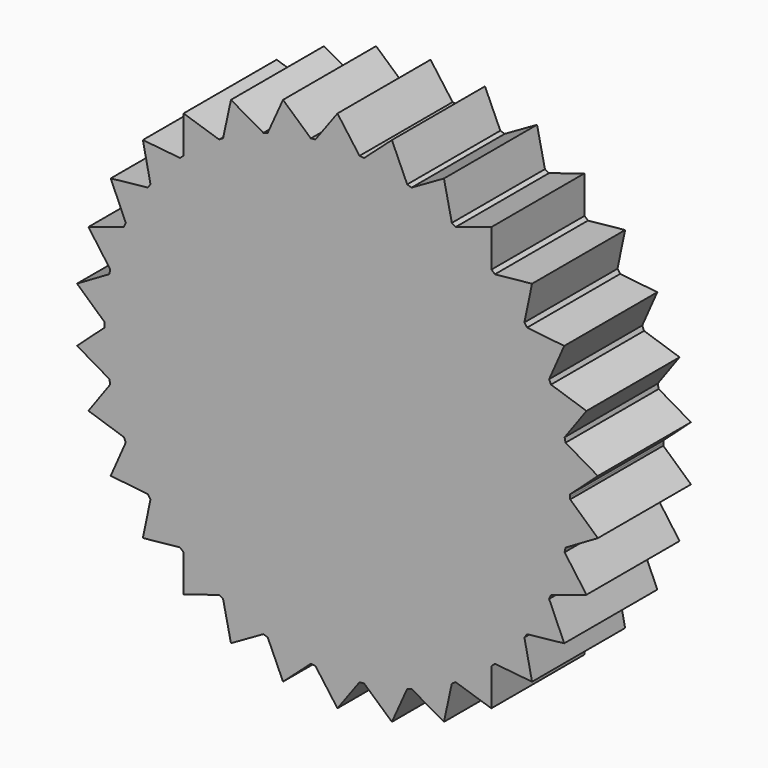
from build123d import *

# Parameters (mm, degrees)
F1_DEPTH = 12.7


with BuildPart() as f1:
    # F0 (on Front) → F1 (new body)
    with BuildSketch(Plane.XZ):
        with BuildLine():
            ThreePointArc((25.39878, -0.248902), (25.399695, -0.124452), (25.4, 0))
            ThreePointArc((25.4, 0), (25.399695, 0.124452), (25.39878, 0.248902))
            ThreePointArc((25.39878, 0.248902), (25.260856, 2.655023), (24.895506, 5.037241))
            ThreePointArc((24.895506, 5.037241), (24.844949, 5.280957), (24.792007, 5.524166))
            ThreePointArc((24.792007, 5.524166), (24.156836, 7.849032), (23.304178, 10.103232))
            ThreePointArc((23.304178, 10.103232), (23.204055, 10.331111), (23.101703, 10.557998))
            ThreePointArc((23.101703, 10.557998), (21.997045, 12.7), (20.694346, 14.727663))
            ThreePointArc((20.694346, 14.727663), (20.549032, 14.929745), (20.401744, 15.130394))
            ThreePointArc((20.401744, 15.130394), (18.875879, 16.995917), (17.180071, 18.708425))
            ThreePointArc((17.180071, 18.708425), (16.995917, 18.875879), (16.810131, 19.04152))
            ThreePointArc((16.810131, 19.04152), (14.929745, 20.549032), (12.914945, 21.871538))
            ThreePointArc((12.914945, 21.871538), (12.7, 21.997045), (12.483835, 22.12044))
            ThreePointArc((12.483835, 22.12044), (10.331111, 23.204055), (8.085374, 24.078761))
            ThreePointArc((8.085374, 24.078761), (7.849032, 24.156836), (7.611935, 24.23259))
            ThreePointArc((7.611935, 24.23259), (5.280957, 24.844949), (2.902434, 25.233626))
            ThreePointArc((2.902434, 25.233626), (2.655023, 25.260856), (2.407357, 25.285661))
            ThreePointArc((2.407357, 25.285661), (0, 25.4), (-2.407357, 25.285661))
            ThreePointArc((-2.407357, 25.285661), (-2.655023, 25.260856), (-2.902434, 25.233626))
            ThreePointArc((-2.902434, 25.233626), (-5.280957, 24.844949), (-7.611935, 24.23259))
            ThreePointArc((-7.611935, 24.23259), (-7.849032, 24.156836), (-8.085374, 24.078761))
            ThreePointArc((-8.085374, 24.078761), (-10.331111, 23.204055), (-12.483835, 22.12044))
            ThreePointArc((-12.483835, 22.12044), (-12.7, 21.997045), (-12.914945, 21.871538))
            ThreePointArc((-12.914945, 21.871538), (-14.929745, 20.549032), (-16.810131, 19.04152))
            ThreePointArc((-16.810131, 19.04152), (-16.995917, 18.875879), (-17.180071, 18.708425))
            ThreePointArc((-17.180071, 18.708425), (-18.875879, 16.995917), (-20.401744, 15.130394))
            ThreePointArc((-20.401744, 15.130394), (-20.549032, 14.929745), (-20.694346, 14.727663))
            ThreePointArc((-20.694346, 14.727663), (-21.997045, 12.7), (-23.101703, 10.557998))
            ThreePointArc((-23.101703, 10.557998), (-23.204055, 10.331111), (-23.304178, 10.103232))
            ThreePointArc((-23.304178, 10.103232), (-24.156836, 7.849032), (-24.792007, 5.524166))
            ThreePointArc((-24.792007, 5.524166), (-24.844949, 5.280957), (-24.895506, 5.037241))
            ThreePointArc((-24.895506, 5.037241), (-25.260856, 2.655023), (-25.39878, 0.248902))
            ThreePointArc((-25.39878, 0.248902), (-25.4, 0), (-25.39878, -0.248902))
            ThreePointArc((-25.39878, -0.248902), (-25.260856, -2.655023), (-24.895506, -5.037241))
            ThreePointArc((-24.895506, -5.037241), (-24.844949, -5.280957), (-24.792007, -5.524166))
            ThreePointArc((-24.792007, -5.524166), (-24.156836, -7.849032), (-23.304178, -10.103232))
            ThreePointArc((-23.304178, -10.103232), (-23.204055, -10.331111), (-23.101703, -10.557998))
            ThreePointArc((-23.101703, -10.557998), (-21.997045, -12.7), (-20.694346, -14.727663))
            ThreePointArc((-20.694346, -14.727663), (-20.549032, -14.929745), (-20.401744, -15.130394))
            ThreePointArc((-20.401744, -15.130394), (-18.875879, -16.995917), (-17.180071, -18.708425))
            ThreePointArc((-17.180071, -18.708425), (-16.995917, -18.875879), (-16.810131, -19.04152))
            ThreePointArc((-16.810131, -19.04152), (-14.929745, -20.549032), (-12.914945, -21.871538))
            ThreePointArc((-12.914945, -21.871538), (-12.7, -21.997045), (-12.483835, -22.12044))
            ThreePointArc((-12.483835, -22.12044), (-10.331111, -23.204055), (-8.085374, -24.078761))
            ThreePointArc((-8.085374, -24.078761), (-7.849032, -24.156836), (-7.611935, -24.23259))
            ThreePointArc((-7.611935, -24.23259), (-5.280957, -24.844949), (-2.902434, -25.233626))
            ThreePointArc((-2.902434, -25.233626), (-2.655023, -25.260856), (-2.407357, -25.285661))
            ThreePointArc((-2.407357, -25.285661), (0, -25.4), (2.407357, -25.285661))
            ThreePointArc((2.407357, -25.285661), (2.655023, -25.260856), (2.902434, -25.233626))
            ThreePointArc((2.902434, -25.233626), (5.280957, -24.844949), (7.611935, -24.23259))
            ThreePointArc((7.611935, -24.23259), (7.849032, -24.156836), (8.085374, -24.078761))
            ThreePointArc((8.085374, -24.078761), (10.331111, -23.204055), (12.483835, -22.12044))
            ThreePointArc((12.483835, -22.12044), (12.7, -21.997045), (12.914945, -21.871538))
            ThreePointArc((12.914945, -21.871538), (14.929745, -20.549032), (16.810131, -19.04152))
            ThreePointArc((16.810131, -19.04152), (16.995917, -18.875879), (17.180071, -18.708425))
            ThreePointArc((17.180071, -18.708425), (18.875879, -16.995917), (20.401744, -15.130394))
            ThreePointArc((20.401744, -15.130394), (20.549032, -14.929745), (20.694346, -14.727663))
            ThreePointArc((20.694346, -14.727663), (21.997045, -12.7), (23.101703, -10.557998))
            ThreePointArc((23.101703, -10.557998), (23.204055, -10.331111), (23.304178, -10.103232))
            ThreePointArc((23.304178, -10.103232), (24.156836, -7.849032), (24.792007, -5.524166))
            ThreePointArc((24.792007, -5.524166), (24.844949, -5.280957), (24.895506, -5.037241))
            ThreePointArc((24.895506, -5.037241), (25.260856, -2.655023), (25.39878, -0.248902))
        make_face()
        with BuildLine():
            Line((-28.418463, -2.986901), (-24.895506, -5.037241))
            ThreePointArc((-24.895506, -5.037241), (-25.260856, -2.655023), (-25.39878, -0.248902))
            Line((-25.39878, -0.248902), (-28.418463, -2.986901))
        make_face()
        with BuildLine():
            ThreePointArc((-25.39878, 0.248902), (-25.260856, 2.655023), (-24.895506, 5.037241))
            Line((-24.895506, 5.037241), (-28.418463, 2.986901))
            Line((-28.418463, 2.986901), (-25.39878, 0.248902))
        make_face()
        with BuildLine():
            ThreePointArc((-24.792007, 5.524166), (-24.156836, 7.849032), (-23.304178, 10.103232))
            Line((-23.304178, 10.103232), (-27.17644, 8.830161))
            Line((-27.17644, 8.830161), (-24.792007, 5.524166))
        make_face()
        with BuildLine():
            ThreePointArc((-23.101703, 10.557998), (-21.997045, 12.7), (-20.694346, 14.727663))
            Line((-20.694346, 14.727663), (-24.746676, 14.2875))
            Line((-24.746676, 14.2875), (-23.101703, 10.557998))
        make_face()
        with BuildLine():
            ThreePointArc((-20.401744, 15.130394), (-18.875879, 16.995917), (-17.180071, 18.708425))
            Line((-17.180071, 18.708425), (-21.235363, 19.120407))
            Line((-21.235363, 19.120407), (-20.401744, 15.130394))
        make_face()
        with BuildLine():
            ThreePointArc((-16.810131, 19.04152), (-14.929745, 20.549032), (-12.914945, 21.871538))
            Line((-12.914945, 21.871538), (-16.795964, 23.117661))
            Line((-16.795964, 23.117661), (-16.810131, 19.04152))
        make_face()
        with BuildLine():
            ThreePointArc((-12.483835, 22.12044), (-10.331111, 23.204055), (-8.085374, 24.078761))
            Line((-8.085374, 24.078761), (-11.6225, 26.104561))
            Line((-11.6225, 26.104561), (-12.483835, 22.12044))
        make_face()
        with BuildLine():
            ThreePointArc((-7.611935, 24.23259), (-5.280957, 24.844949), (-2.902434, 25.233626))
            Line((-2.902434, 25.233626), (-5.941077, 27.950568))
            Line((-5.941077, 27.950568), (-7.611935, 24.23259))
        make_face()
        with BuildLine():
            ThreePointArc((-2.407357, 25.285661), (0, 25.4), (2.407357, 25.285661))
            Line((2.407357, 25.285661), (0, 28.575))
            Line((0, 28.575), (-2.407357, 25.285661))
        make_face()
        with BuildLine():
            ThreePointArc((2.902434, 25.233626), (5.280957, 24.844949), (7.611935, 24.23259))
            Line((7.611935, 24.23259), (5.941077, 27.950568))
            Line((5.941077, 27.950568), (2.902434, 25.233626))
        make_face()
        with BuildLine():
            ThreePointArc((12.914945, 21.871538), (14.929745, 20.549032), (16.810131, 19.04152))
            Line((16.810131, 19.04152), (16.795964, 23.117661))
            Line((16.795964, 23.117661), (12.914945, 21.871538))
        make_face()
        with BuildLine():
            ThreePointArc((17.180071, 18.708425), (18.875879, 16.995917), (20.401744, 15.130394))
            Line((20.401744, 15.130394), (21.235363, 19.120407))
            Line((21.235363, 19.120407), (17.180071, 18.708425))
        make_face()
        with BuildLine():
            ThreePointArc((20.694346, 14.727663), (21.997045, 12.7), (23.101703, 10.557998))
            Line((23.101703, 10.557998), (24.746676, 14.2875))
            Line((24.746676, 14.2875), (20.694346, 14.727663))
        make_face()
        with BuildLine():
            ThreePointArc((23.304178, 10.103232), (24.156836, 7.849032), (24.792007, 5.524166))
            Line((24.792007, 5.524166), (27.17644, 8.830161))
            Line((27.17644, 8.830161), (23.304178, 10.103232))
        make_face()
        with BuildLine():
            ThreePointArc((8.085374, 24.078761), (10.331111, 23.204055), (12.483835, 22.12044))
            Line((12.483835, 22.12044), (11.6225, 26.104561))
            Line((11.6225, 26.104561), (8.085374, 24.078761))
        make_face()
        with BuildLine():
            ThreePointArc((24.895506, 5.037241), (25.260856, 2.655023), (25.39878, 0.248902))
            Line((25.39878, 0.248902), (28.418463, 2.986901))
            Line((28.418463, 2.986901), (24.895506, 5.037241))
        make_face()
        with BuildLine():
            Line((28.418463, -2.986901), (25.39878, -0.248902))
            ThreePointArc((25.39878, -0.248902), (25.260856, -2.655023), (24.895506, -5.037241))
            Line((24.895506, -5.037241), (28.418463, -2.986901))
        make_face()
        with BuildLine():
            Line((27.17644, -8.830161), (24.792007, -5.524166))
            ThreePointArc((24.792007, -5.524166), (24.156836, -7.849032), (23.304178, -10.103232))
            Line((23.304178, -10.103232), (27.17644, -8.830161))
        make_face()
        with BuildLine():
            Line((24.746676, -14.2875), (23.101703, -10.557998))
            ThreePointArc((23.101703, -10.557998), (21.997045, -12.7), (20.694346, -14.727663))
            Line((20.694346, -14.727663), (24.746676, -14.2875))
        make_face()
        with BuildLine():
            Line((21.235363, -19.120407), (20.401744, -15.130394))
            ThreePointArc((20.401744, -15.130394), (18.875879, -16.995917), (17.180071, -18.708425))
            Line((17.180071, -18.708425), (21.235363, -19.120407))
        make_face()
        with BuildLine():
            Line((11.6225, -26.104561), (12.483835, -22.12044))
            ThreePointArc((12.483835, -22.12044), (10.331111, -23.204055), (8.085374, -24.078761))
            Line((8.085374, -24.078761), (11.6225, -26.104561))
        make_face()
        with BuildLine():
            Line((5.941077, -27.950568), (7.611935, -24.23259))
            ThreePointArc((7.611935, -24.23259), (5.280957, -24.844949), (2.902434, -25.233626))
            Line((2.902434, -25.233626), (5.941077, -27.950568))
        make_face()
        with BuildLine():
            Line((0, -28.575), (2.407357, -25.285661))
            ThreePointArc((2.407357, -25.285661), (0, -25.4), (-2.407357, -25.285661))
            Line((-2.407357, -25.285661), (0, -28.575))
        make_face()
        with BuildLine():
            Line((-5.941077, -27.950568), (-2.902434, -25.233626))
            ThreePointArc((-2.902434, -25.233626), (-5.280957, -24.844949), (-7.611935, -24.23259))
            Line((-7.611935, -24.23259), (-5.941077, -27.950568))
        make_face()
        with BuildLine():
            Line((-11.6225, -26.104561), (-8.085374, -24.078761))
            ThreePointArc((-8.085374, -24.078761), (-10.331111, -23.204055), (-12.483835, -22.12044))
            Line((-12.483835, -22.12044), (-11.6225, -26.104561))
        make_face()
        with BuildLine():
            Line((-16.795964, -23.117661), (-12.914945, -21.871538))
            ThreePointArc((-12.914945, -21.871538), (-14.929745, -20.549032), (-16.810131, -19.04152))
            Line((-16.810131, -19.04152), (-16.795964, -23.117661))
        make_face()
        with BuildLine():
            Line((-21.235363, -19.120407), (-17.180071, -18.708425))
            ThreePointArc((-17.180071, -18.708425), (-18.875879, -16.995917), (-20.401744, -15.130394))
            Line((-20.401744, -15.130394), (-21.235363, -19.120407))
        make_face()
        with BuildLine():
            Line((-24.746676, -14.2875), (-20.694346, -14.727663))
            ThreePointArc((-20.694346, -14.727663), (-21.997045, -12.7), (-23.101703, -10.557998))
            Line((-23.101703, -10.557998), (-24.746676, -14.2875))
        make_face()
        with BuildLine():
            Line((-27.17644, -8.830161), (-23.304178, -10.103232))
            ThreePointArc((-23.304178, -10.103232), (-24.156836, -7.849032), (-24.792007, -5.524166))
            Line((-24.792007, -5.524166), (-27.17644, -8.830161))
        make_face()
        with BuildLine():
            Line((16.795964, -23.117661), (16.810131, -19.04152))
            ThreePointArc((16.810131, -19.04152), (14.929745, -20.549032), (12.914945, -21.871538))
            Line((12.914945, -21.871538), (16.795964, -23.117661))
        make_face()
    extrude(amount=F1_DEPTH)


solid = f1.part
